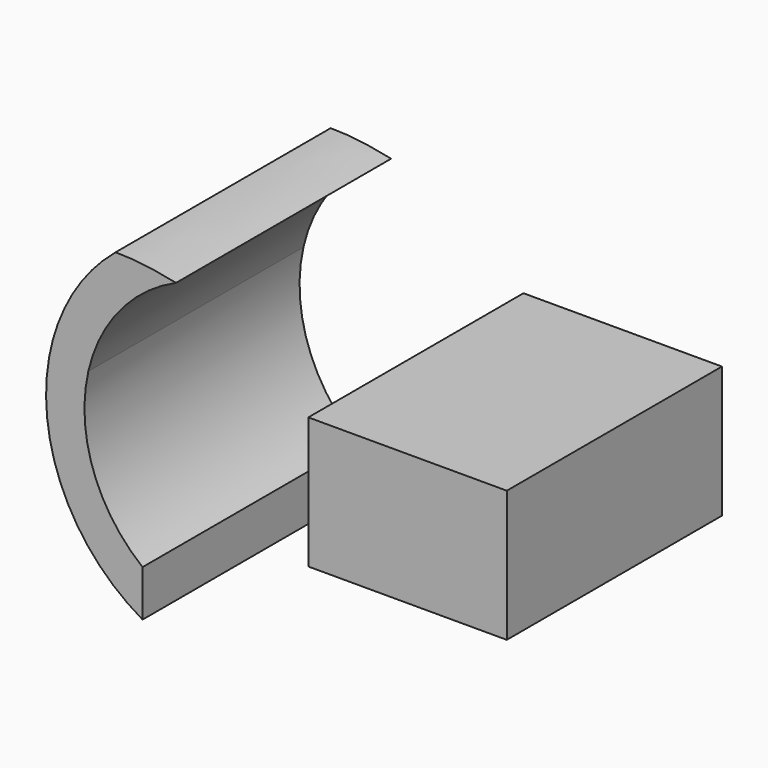
from build123d import *

# Parameters (mm, degrees)
F1_DEPTH = 127
F0_W     = 93.7408668331
F0_H     = 62.0213247319


with BuildPart() as f1:
    # F0 (on Front) → F1 (new body)
    with BuildSketch(Plane.XZ):
        with BuildLine():
            Line((-47.3911331533, 84.9169699061), (-65.8882985115, 84.9169699061))
            ThreePointArc((-65.8882985115, 84.9169699061), (-58.8930784325, 30.4529547253), (-21.7783040549, -10.0162382056))
            Line((-21.7783040549, -10.0162382056), (-21.7783040549, 11.8308921718))
            ThreePointArc((-21.7783040549, 11.8308921718), (-45.1328357938, 44.6773703359), (-47.3911331533, 84.9169699061))
        make_face()
        with BuildLine():
            ThreePointArc((-34.5441564261, 138.5671736068), (-54.9488604252, 114.5070252812), (-65.8882985115, 84.9169699061))
            Line((-65.8882985115, 84.9169699061), (-47.3911331533, 84.9169699061))
            ThreePointArc((-47.3911331533, 84.9169699061), (-32.6211573158, 114.9359816035), (-5.9664975052, 135.1553376741))
            add(Edge.make_bspline(
                [(-34.5441564261, 138.5671736068), (-26.9871324388, 138.6935360437), (-17.6391740163, 137.6704537971), (-5.9664975052, 135.1553376741)],
                knots=[119.7761602721, 119.7761602721, 119.7761602721, 119.7761602721, 138.7265728245, 138.7265728245, 138.7265728245, 138.7265728245], degree=3))
        make_face()
    extrude(amount=F1_DEPTH)


with BuildPart() as f1b:
    # F0 (on Front) → F1, piece 2 (new body)
    with BuildSketch(Plane.XZ):
        with Locations((103.3854281902, 68.5357653793)):
            Rectangle(F0_W, F0_H)
    extrude(amount=F1_DEPTH)


solid = Compound([f1.part, f1b.part])
